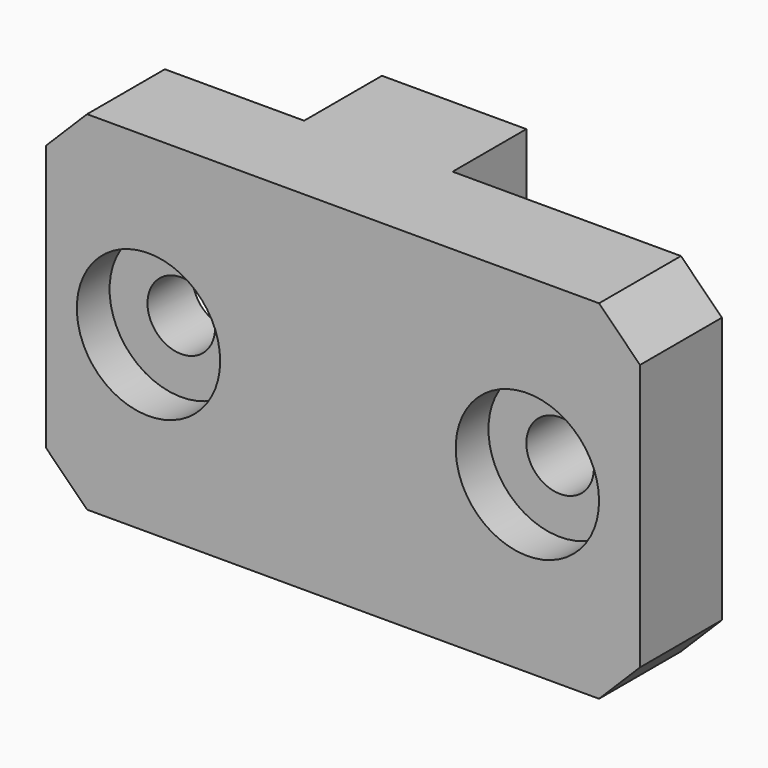
from build123d import *

# Parameters (mm, degrees)
CYLINDER021_R            = 1.65
CYLINDER021_DEPTH        = 10
CYLINDER022_R            = 1.65
CYLINDER022_DEPTH        = 10
CYLINDER023_R            = 3.5
CYLINDER023_DEPTH        = 2
CYLINDER024_R            = 3.5
CYLINDER024_DEPTH        = 2
BOX034_W                 = 18.15
BOX034_H                 = 5
BOX034_DEPTH             = 20.3
CHAMFER003001005009_SIZE = 3
BOX037_W                 = 18
BOX037_H                 = 5
BOX037_DEPTH             = 28
CHAMFER003001005012_SIZE = 2.99
BOX049_W                 = 29
BOX049_H                 = 9.5
BOX049_DEPTH             = 17
CHAMFER003001005032_SIZE = 2


with BuildPart() as cylinder021:
    # Cylinder021 → Cylinder021 (new body)
    with BuildSketch(Plane(origin=(41, 0, 87.5), x_dir=(1, 0, 0), z_dir=(0, 1, 0))):
        Circle(CYLINDER021_R)
    extrude(amount=CYLINDER021_DEPTH)


with BuildPart() as fusion003018:
    # Cylinder022 → Cylinder022 (new body)
    with BuildSketch(Plane(origin=(59.5, 0, 87.5), x_dir=(1, 0, 0), z_dir=(0, 1, 0))):
        Circle(CYLINDER022_R)
    extrude(amount=CYLINDER022_DEPTH)

    # Fusion003018: union Cylinder021
    add(cylinder021.part)


with BuildPart() as cylinder023:
    # Cylinder023 → Cylinder023 (new body)
    with BuildSketch(Plane(origin=(59.5, 0, 87.5), x_dir=(1, 0, 0), z_dir=(0, 1, 0))):
        Circle(CYLINDER023_R)
    extrude(amount=CYLINDER023_DEPTH)


with BuildPart() as fusion003023006:
    # Cylinder024 → Cylinder024 (new body)
    with BuildSketch(Plane(origin=(41, 0, 87.5), x_dir=(1, 0, 0), z_dir=(0, 1, 0))):
        Circle(CYLINDER024_R)
    extrude(amount=CYLINDER024_DEPTH)

    # Fusion003019: union Cylinder023
    add(cylinder023.part)

    # Fusion003023006: union Fusion003018
    add(fusion003018.part)


with BuildPart() as chamfer003001005009:
    # Box034 → Box034 (new body)
    with BuildSketch(Plane(origin=(28, 4.75, 77.85), x_dir=(1, 0, 0), z_dir=(0, 0, 1))):
        with Locations((9.075, 2.5)):
            Rectangle(BOX034_W, BOX034_H)
    extrude(amount=BOX034_DEPTH)

    # Chamfer003001005009
    chamfer003001005009_edges = [chamfer003001005009.edges().sort_by_distance(p)[0] for p in [
        (46.15, 7.25, 98.15),
        (46.15, 7.25, 77.85),
    ]]
    chamfer(chamfer003001005009_edges, length=CHAMFER003001005009_SIZE)


with BuildPart() as chamfer003001005009_1:
    # Chamfer003001005009 placement: moved
    add(chamfer003001005009.part.moved(Location((0, 0, -0.5))))


with BuildPart() as fusion003023005:
    # Box037 → Box037 (new body)
    with BuildSketch(Plane(origin=(51.85, 5, 78), x_dir=(1, 0, 0), z_dir=(0, 0, 1))):
        with Locations((9, 2.5)):
            Rectangle(BOX037_W, BOX037_H)
    extrude(amount=BOX037_DEPTH)

    # Chamfer003001005012
    chamfer003001005012_edges = [fusion003023005.edges().sort_by_distance(p)[0] for p in [
        (51.85, 7.5, 78),
    ]]
    chamfer(chamfer003001005012_edges, length=CHAMFER003001005012_SIZE)

    # Fusion003023005: union Chamfer003001005009
    add(chamfer003001005009_1.part)


with BuildPart() as mount_connector_lower_f1:
    # Box049 → Box049 (new body)
    with BuildSketch(Plane(origin=(36, 0, 79), x_dir=(1, 0, 0), z_dir=(0, 0, 1))):
        with Locations((14.5, 4.75)):
            Rectangle(BOX049_W, BOX049_H)
    extrude(amount=BOX049_DEPTH)

    # Chamfer003001005032
    chamfer003001005032_edges = [mount_connector_lower_f1.edges().sort_by_distance(p)[0] for p in [
        (36, 4.75, 96),
        (36, 4.75, 79),
        (65, 4.75, 96),
        (65, 4.75, 79),
    ]]
    chamfer(chamfer003001005032_edges, length=CHAMFER003001005032_SIZE)

    # Cut003023001022: cut Fusion003023005
    add(fusion003023005.part, mode=Mode.SUBTRACT)

    # Cut003023001023: cut Fusion003023006
    add(fusion003023006.part, mode=Mode.SUBTRACT)


solid = mount_connector_lower_f1.part
